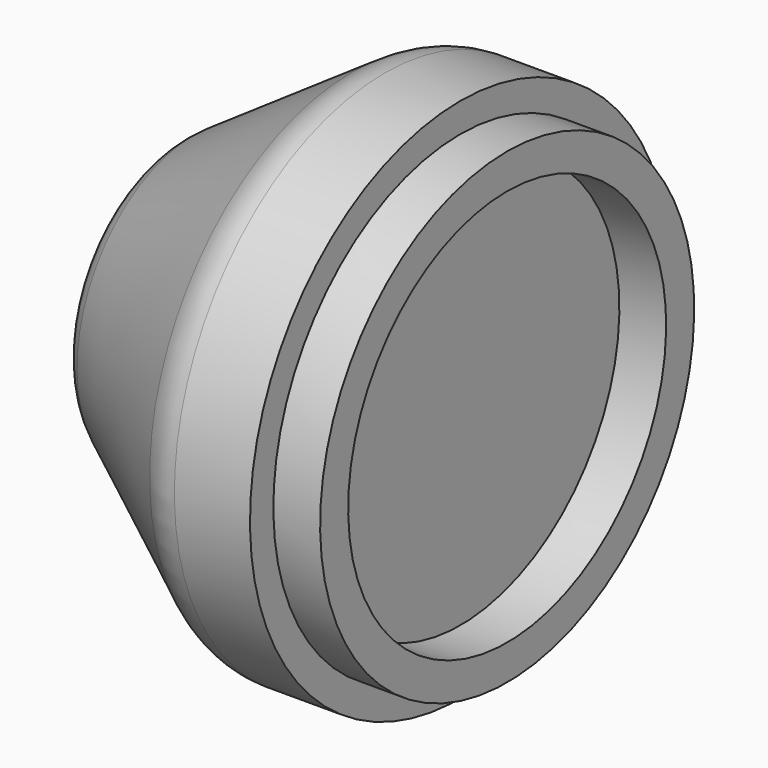
from build123d import *

# Parameters (mm, degrees)
F0_W = 4
F0_H = 3


with BuildPart() as f1:
    # F0 (on Front) → F1 (revolve)
    with BuildSketch(Plane.XZ):
        with BuildLine():
            Line((0, 2.5), (0, 0))
            Line((0, 0), (28, 0))
            Line((28, 0), (28, 17))
            Line((28, 17), (28, 20))
            Line((28, 20), (28, 22.5))
            Line((28, 22.5), (21.532337, 22.5))
            ThreePointArc((21.532337, 22.5), (20.067258, 22.280538), (18.73079, 21.641417))
            Line((18.73079, 21.641417), (5.198453, 12.487189))
            ThreePointArc((5.198453, 12.487189), (3.583682, 10.690155), (3, 8.345772))
            Line((3, 8.345772), (3, 2.5))
            Line((3, 2.5), (0, 2.5))
        make_face()
        with Locations((30, 18.5)):
            Rectangle(F0_W, F0_H)
    revolve(axis=Axis((14, 0, 0), (1, 0, 0)))


solid = f1.part
